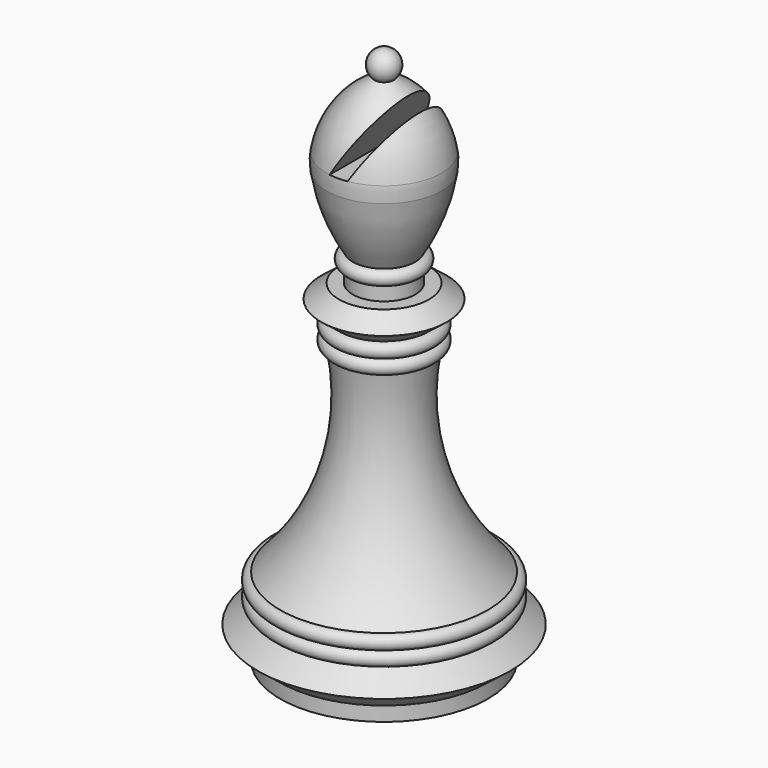
from build123d import *

# Parameters (mm, degrees)
F3_DEPTH = 12.7


with BuildPart() as f1:
    # F0 (on Front) → F1 (revolve)
    with BuildSketch(Plane.XZ):
        with BuildLine():
            ThreePointArc((1.344042, 72.644), (1.900762, 74.88642), (0, 76.2))
            Line((0, 76.2), (0, 0))
            Line((0, 0), (14.684375, 0))
            Line((14.684375, 0), (14.684375, 2.032))
            Line((14.684375, 2.032), (17.859375, 4.512582))
            Line((17.859375, 4.512582), (14.684375, 6.993164))
            ThreePointArc((14.684375, 6.993164), (15.700375, 8.009164), (14.684375, 9.025164))
            ThreePointArc((14.684375, 9.025164), (15.700375, 10.041164), (14.684375, 11.057164))
            ThreePointArc((14.684375, 11.057164), (7.130248, 23.995356), (6.35, 38.957069))
            ThreePointArc((6.35, 38.957069), (7.366, 39.973069), (6.35, 40.989069))
            ThreePointArc((6.35, 40.989069), (7.366, 42.005069), (6.35, 43.021069))
            Line((6.35, 43.021069), (8.89, 45.005535))
            Line((8.89, 45.005535), (6.35, 46.99))
            Line((6.35, 46.99), (4.429484, 46.99))
            Line((4.429484, 46.99), (4.429484, 49.022))
            ThreePointArc((4.429484, 49.022), (5.445484, 50.038), (4.429484, 51.054))
            ThreePointArc((4.429484, 51.054), (6.776986, 55.877007), (8.128, 61.06805))
            ThreePointArc((8.128, 61.06805), (8.214622, 62.180435), (8.128, 63.29282))
            ThreePointArc((8.128, 63.29282), (5.860871, 68.78445), (1.344042, 72.644))
        make_face()
    revolve(axis=Axis((0, 0, 38.1), (0, 0, -1)))

    # F2 (on Front) → F3 (cut, symmetric)
    with BuildSketch(Plane.XZ):
        Polygon((4.128906, 72.644), (-1.27, 63.29282), (1.27, 63.29282), (6.668906, 72.644), align=None)
    extrude(amount=F3_DEPTH, both=True, mode=Mode.SUBTRACT)


solid = f1.part
